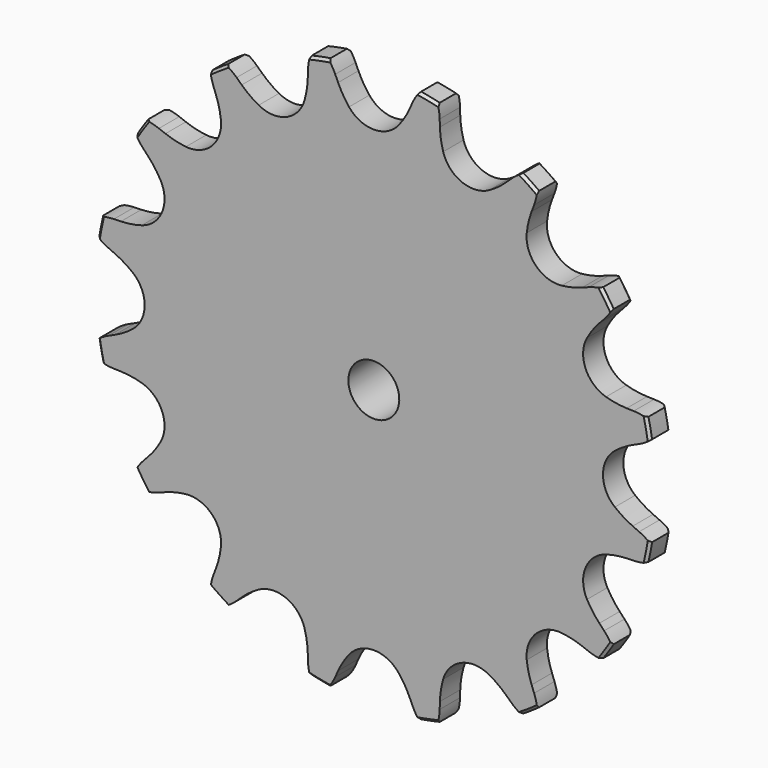
from build123d import *

# Parameters (mm, degrees)
F1_W     = 9.525
F1_H     = 9.525
F1_W_2   = 3.175
F1_H_2   = 22.225
F3_R     = 1.5875
F4_SIZE  = 0.635
F5_SIZE  = 0.3175
F7_DEPTH = 12.701


with BuildPart() as f2:
    # F1 (on Right) → F2 (revolve)
    with BuildSketch(Plane.YZ):
        with Locations((7.9375, 7.9375)):
            Rectangle(F1_W, F1_H)
        with Locations((1.5875, 7.9375)):
            Rectangle(F1_W_2, F1_H)
        with Locations((1.5875, 23.8125)):
            Rectangle(F1_W_2, F1_H_2)
    revolve(axis=Axis((0, 6.35, 0), (0, 1, 0)))

    # F3
    f3_edges = [f2.edges().sort_by_distance(p)[0] for p in [
        (0, 3.175, -12.7),
    ]]
    fillet(f3_edges, radius=F3_R)

    # F4
    f4_edges = [f2.edges().sort_by_distance(p)[0] for p in [
        (0, 12.7, -12.7),
    ]]
    chamfer(f4_edges, length=F4_SIZE)

    # F5
    f5_edges = [f2.edges().sort_by_distance(p)[0] for p in [
        (0, 0, -34.925),
        (0, 3.175, -34.925),
    ]]
    chamfer(f5_edges, length=F5_SIZE)

    # F6 (on face) → F7 (intersect, through all)
    with BuildSketch(Plane.XZ):
        with BuildLine():
            ThreePointArc((-3.0902142758, 30.0699408338), (-3.8441959519, 31.1417538349), (-4.4568878106, 32.3001493474))
            Line((-4.4568878106, 32.3001493474), (-4.8164154778, 33.0982711732))
            ThreePointArc((-4.8164154778, 33.0982711732), (-5.7824590494, 34.6345413147), (-7.1308367855, 35.8491373836))
            ThreePointArc((-7.1308367855, 35.8491373836), (-7.9117695854, 34.2109951151), (-8.2163723379, 32.4219777052))
            Line((-8.2163723379, 32.4219777052), (-8.2431045912, 31.5470240041))
            ThreePointArc((-8.2431045912, 31.5470240041), (-8.3658592885, 30.2423390761), (-8.6522824488, 28.963576686))
            ThreePointArc((-8.6522824488, 28.963576686), (-10.9400391594, 26.4115909116), (-14.3622538898, 26.5984290744))
            ThreePointArc((-14.3622538898, 26.5984290744), (-15.4690072063, 27.300118873), (-16.4783594451, 28.135869754))
            Line((-16.4783594451, 28.135869754), (-17.115947698, 28.7356528917))
            ThreePointArc((-17.115947698, 28.7356528917), (-18.596360712, 29.7852925621), (-20.3069050971, 30.3914311902))
            ThreePointArc((-20.3069050971, 30.3914311902), (-20.4015030212, 28.5791350327), (-19.9982919468, 26.8097320375))
            Line((-19.9982919468, 26.8097320375), (-19.688159043, 25.9911502307))
            ThreePointArc((-19.688159043, 25.9911502307), (-19.3022882889, 24.7388023405), (-19.0775476037, 23.4477705432))
            ThreePointArc((-19.0775476037, 23.4477705432), (-20.2145565285, 20.2145565285), (-23.4477705432, 19.0775476037))
            ThreePointArc((-23.4477705432, 19.0775476037), (-24.7388023405, 19.3022882889), (-25.9911502307, 19.688159043))
            Line((-25.9911502307, 19.688159043), (-26.8097320375, 19.9982919468))
            ThreePointArc((-26.8097320375, 19.9982919468), (-28.5791350327, 20.4015030212), (-30.3914311902, 20.3069050971))
            ThreePointArc((-30.3914311902, 20.3069050971), (-29.7852925621, 18.596360712), (-28.7356528917, 17.115947698))
            Line((-28.7356528917, 17.115947698), (-28.135869754, 16.4783594451))
            ThreePointArc((-28.135869754, 16.4783594451), (-27.300118873, 15.4690072063), (-26.5984290744, 14.3622538898))
            ThreePointArc((-26.5984290744, 14.3622538898), (-26.4115909116, 10.9400391594), (-28.963576686, 8.6522824488))
            ThreePointArc((-28.963576686, 8.6522824488), (-30.2423390761, 8.3658592885), (-31.5470240041, 8.2431045912))
            Line((-31.5470240041, 8.2431045912), (-32.4219777052, 8.2163723379))
            ThreePointArc((-32.4219777052, 8.2163723379), (-34.2109951151, 7.9117695854), (-35.8491373836, 7.1308367855))
            ThreePointArc((-35.8491373836, 7.1308367855), (-34.6345413147, 5.7824590494), (-33.0982711732, 4.8164154778))
            Line((-33.0982711732, 4.8164154778), (-32.3001493474, 4.4568878106))
            ThreePointArc((-32.3001493474, 4.4568878106), (-31.1417538349, 3.8441959519), (-30.0699408338, 3.0902142758))
            ThreePointArc((-30.0699408338, 3.0902142758), (-28.5877, 0), (-30.0699408338, -3.0902142758))
            ThreePointArc((-30.0699408338, -3.0902142758), (-31.1417538349, -3.8441959519), (-32.3001493474, -4.4568878106))
            Line((-32.3001493474, -4.4568878106), (-33.0982711732, -4.8164154778))
            ThreePointArc((-33.0982711732, -4.8164154778), (-34.6345413147, -5.7824590494), (-35.8491373836, -7.1308367855))
            ThreePointArc((-35.8491373836, -7.1308367855), (-34.2109951151, -7.9117695854), (-32.4219777052, -8.2163723379))
            Line((-32.4219777052, -8.2163723379), (-31.5470240041, -8.2431045912))
            ThreePointArc((-31.5470240041, -8.2431045912), (-30.2423390761, -8.3658592885), (-28.963576686, -8.6522824488))
            ThreePointArc((-28.963576686, -8.6522824488), (-26.4115909116, -10.9400391594), (-26.5984290744, -14.3622538898))
            ThreePointArc((-26.5984290744, -14.3622538898), (-27.300118873, -15.4690072063), (-28.135869754, -16.4783594451))
            Line((-28.135869754, -16.4783594451), (-28.7356528917, -17.115947698))
            ThreePointArc((-28.7356528917, -17.115947698), (-29.7852925621, -18.596360712), (-30.3914311902, -20.3069050971))
            ThreePointArc((-30.3914311902, -20.3069050971), (-28.5791350327, -20.4015030212), (-26.8097320375, -19.9982919468))
            Line((-26.8097320375, -19.9982919468), (-25.9911502307, -19.688159043))
            ThreePointArc((-25.9911502307, -19.688159043), (-24.7388023405, -19.3022882889), (-23.4477705432, -19.0775476037))
            ThreePointArc((-23.4477705432, -19.0775476037), (-20.2145565285, -20.2145565285), (-19.0775476037, -23.4477705432))
            ThreePointArc((-19.0775476037, -23.4477705432), (-19.3022882889, -24.7388023405), (-19.688159043, -25.9911502307))
            Line((-19.688159043, -25.9911502307), (-19.9982919468, -26.8097320375))
            ThreePointArc((-19.9982919468, -26.8097320375), (-20.4015030212, -28.5791350327), (-20.3069050971, -30.3914311902))
            ThreePointArc((-20.3069050971, -30.3914311902), (-18.596360712, -29.7852925621), (-17.115947698, -28.7356528917))
            Line((-17.115947698, -28.7356528917), (-16.4783594451, -28.135869754))
            ThreePointArc((-16.4783594451, -28.135869754), (-15.4690072063, -27.300118873), (-14.3622538898, -26.5984290744))
            ThreePointArc((-14.3622538898, -26.5984290744), (-10.9400391594, -26.4115909116), (-8.6522824488, -28.963576686))
            ThreePointArc((-8.6522824488, -28.963576686), (-8.3658592885, -30.2423390761), (-8.2431045912, -31.5470240041))
            Line((-8.2431045912, -31.5470240041), (-8.2163723379, -32.4219777052))
            ThreePointArc((-8.2163723379, -32.4219777052), (-7.9117695854, -34.2109951151), (-7.1308367855, -35.8491373836))
            ThreePointArc((-7.1308367855, -35.8491373836), (-5.7824590494, -34.6345413147), (-4.8164154778, -33.0982711732))
            Line((-4.8164154778, -33.0982711732), (-4.4568878106, -32.3001493474))
            ThreePointArc((-4.4568878106, -32.3001493474), (-3.8441959519, -31.1417538349), (-3.0902142758, -30.0699408338))
            ThreePointArc((-3.0902142758, -30.0699408338), (0, -28.5877), (3.0902142758, -30.0699408338))
            ThreePointArc((3.0902142758, -30.0699408338), (3.8441959519, -31.1417538349), (4.4568878106, -32.3001493474))
            Line((4.4568878106, -32.3001493474), (4.8164154778, -33.0982711732))
            ThreePointArc((4.8164154778, -33.0982711732), (5.7824590494, -34.6345413147), (7.1308367855, -35.8491373836))
            ThreePointArc((7.1308367855, -35.8491373836), (7.9117695854, -34.2109951151), (8.2163723379, -32.4219777052))
            Line((8.2163723379, -32.4219777052), (8.2431045912, -31.5470240041))
            ThreePointArc((8.2431045912, -31.5470240041), (8.3658592885, -30.2423390761), (8.6522824488, -28.963576686))
            ThreePointArc((8.6522824488, -28.963576686), (10.9400391594, -26.4115909116), (14.3622538898, -26.5984290744))
            ThreePointArc((14.3622538898, -26.5984290744), (15.4690072063, -27.300118873), (16.4783594451, -28.135869754))
            Line((16.4783594451, -28.135869754), (17.115947698, -28.7356528917))
            ThreePointArc((17.115947698, -28.7356528917), (18.596360712, -29.7852925621), (20.3069050971, -30.3914311902))
            ThreePointArc((20.3069050971, -30.3914311902), (20.4015030212, -28.5791350327), (19.9982919468, -26.8097320375))
            Line((19.9982919468, -26.8097320375), (19.688159043, -25.9911502307))
            ThreePointArc((19.688159043, -25.9911502307), (19.3022882889, -24.7388023405), (19.0775476037, -23.4477705432))
            ThreePointArc((19.0775476037, -23.4477705432), (20.2145565285, -20.2145565285), (23.4477705432, -19.0775476037))
            ThreePointArc((23.4477705432, -19.0775476037), (24.7388023405, -19.3022882889), (25.9911502307, -19.688159043))
            Line((25.9911502307, -19.688159043), (26.8097320375, -19.9982919468))
            ThreePointArc((26.8097320375, -19.9982919468), (28.5791350327, -20.4015030212), (30.3914311902, -20.3069050971))
            ThreePointArc((30.3914311902, -20.3069050971), (29.7852925621, -18.596360712), (28.7356528917, -17.115947698))
            Line((28.7356528917, -17.115947698), (28.135869754, -16.4783594451))
            ThreePointArc((28.135869754, -16.4783594451), (27.300118873, -15.4690072063), (26.5984290744, -14.3622538898))
            ThreePointArc((26.5984290744, -14.3622538898), (26.4115909116, -10.9400391594), (28.963576686, -8.6522824488))
            ThreePointArc((28.963576686, -8.6522824488), (30.2423390761, -8.3658592885), (31.5470240041, -8.2431045912))
            Line((31.5470240041, -8.2431045912), (32.4219777052, -8.2163723379))
            ThreePointArc((32.4219777052, -8.2163723379), (34.2109951151, -7.9117695854), (35.8491373836, -7.1308367855))
            ThreePointArc((35.8491373836, -7.1308367855), (34.6345413147, -5.7824590494), (33.0982711732, -4.8164154778))
            Line((33.0982711732, -4.8164154778), (32.3001493474, -4.4568878106))
            ThreePointArc((32.3001493474, -4.4568878106), (31.1417538349, -3.8441959519), (30.0699408338, -3.0902142758))
            ThreePointArc((30.0699408338, -3.0902142758), (28.5877, 0), (30.0699408338, 3.0902142758))
            ThreePointArc((30.0699408338, 3.0902142758), (31.1417538349, 3.8441959519), (32.3001493474, 4.4568878106))
            Line((32.3001493474, 4.4568878106), (33.0982711732, 4.8164154778))
            ThreePointArc((33.0982711732, 4.8164154778), (34.6345413147, 5.7824590494), (35.8491373836, 7.1308367855))
            ThreePointArc((35.8491373836, 7.1308367855), (34.2109951151, 7.9117695854), (32.4219777052, 8.2163723379))
            Line((32.4219777052, 8.2163723379), (31.5470240041, 8.2431045912))
            ThreePointArc((31.5470240041, 8.2431045912), (30.2423390761, 8.3658592885), (28.963576686, 8.6522824488))
            ThreePointArc((28.963576686, 8.6522824488), (26.4115909116, 10.9400391594), (26.5984290744, 14.3622538898))
            ThreePointArc((26.5984290744, 14.3622538898), (27.300118873, 15.4690072063), (28.135869754, 16.4783594451))
            Line((28.135869754, 16.4783594451), (28.7356528917, 17.115947698))
            ThreePointArc((28.7356528917, 17.115947698), (29.7852925621, 18.596360712), (30.3914311902, 20.3069050971))
            ThreePointArc((30.3914311902, 20.3069050971), (28.5791350327, 20.4015030212), (26.8097320375, 19.9982919468))
            Line((26.8097320375, 19.9982919468), (25.9911502307, 19.688159043))
            ThreePointArc((25.9911502307, 19.688159043), (24.7388023405, 19.3022882889), (23.4477705432, 19.0775476037))
            ThreePointArc((23.4477705432, 19.0775476037), (20.2145565285, 20.2145565285), (19.0775476037, 23.4477705432))
            ThreePointArc((19.0775476037, 23.4477705432), (19.3022882889, 24.7388023405), (19.688159043, 25.9911502307))
            Line((19.688159043, 25.9911502307), (19.9982919468, 26.8097320375))
            ThreePointArc((19.9982919468, 26.8097320375), (20.4015030212, 28.5791350327), (20.3069050971, 30.3914311902))
            ThreePointArc((20.3069050971, 30.3914311902), (18.596360712, 29.7852925621), (17.115947698, 28.7356528917))
            Line((17.115947698, 28.7356528917), (16.4783594451, 28.135869754))
            ThreePointArc((16.4783594451, 28.135869754), (15.4690072063, 27.300118873), (14.3622538898, 26.5984290744))
            ThreePointArc((14.3622538898, 26.5984290744), (10.9400391594, 26.4115909116), (8.6522824488, 28.963576686))
            ThreePointArc((8.6522824488, 28.963576686), (8.3658592885, 30.2423390761), (8.2431045912, 31.5470240041))
            Line((8.2431045912, 31.5470240041), (8.2163723379, 32.4219777052))
            ThreePointArc((8.2163723379, 32.4219777052), (7.9117695854, 34.2109951151), (7.1308367855, 35.8491373836))
            ThreePointArc((7.1308367855, 35.8491373836), (5.7824590494, 34.6345413147), (4.8164154778, 33.0982711732))
            Line((4.8164154778, 33.0982711732), (4.4568878106, 32.3001493474))
            ThreePointArc((4.4568878106, 32.3001493474), (3.8441959519, 31.1417538349), (3.0902142758, 30.0699408338))
            ThreePointArc((3.0902142758, 30.0699408338), (0, 28.5877), (-3.0902142758, 30.0699408338))
        make_face()
    extrude(amount=-F7_DEPTH, mode=Mode.INTERSECT)


solid = f2.part
